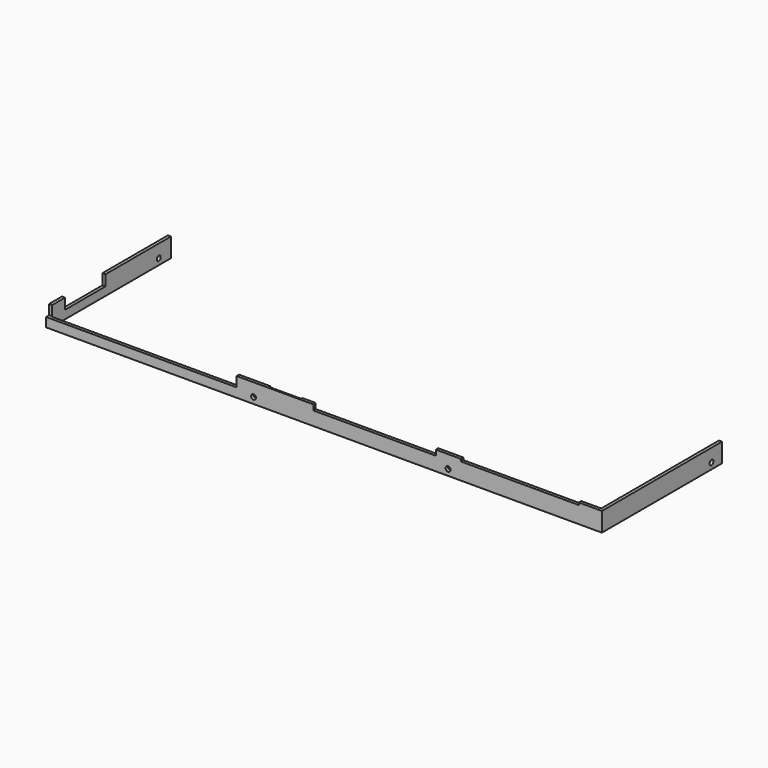
from build123d import *

# Parameters (mm, degrees)
SKETCH103_W             = 21
SKETCH103_H             = 19
EXTRUDE095_DEPTH        = 2
SKETCH127_R             = 1.6
EXTRUDE117_DEPTH        = 10
BODY090_PLACEMENT_ANGLE = 90
BODY091_PLACEMENT_ANGLE = 90
BODY092_PLACEMENT_ANGLE = 90
BODY093_PLACEMENT_ANGLE = 90
SKETCH135_W             = 33
SKETCH135_H             = 7.5
EXTRUDE125_DEPTH        = 4
SKETCH102_W             = 126
SKETCH102_H             = 18
SKETCH102_W_2           = 80
SKETCH102_H_2           = 14
SKETCH102_W_3           = 77
SKETCH102_H_3           = 12
EXTRUDE094_DEPTH        = 4
EXTRUDE077_DEPTH        = 12.5


with BuildPart() as extrude095:
    # Sketch103 → Extrude095 (new body)
    with BuildSketch(Plane.XZ.offset(0.5)):
        with Locations((153, -16.5)):
            Rectangle(SKETCH103_W, SKETCH103_H)
    extrude(amount=-EXTRUDE095_DEPTH)


with BuildPart() as screw_outer:
    # Sketch127 → Extrude117 (new body)
    with BuildSketch(Plane.XY):
        Circle(SKETCH127_R)
    extrude(amount=EXTRUDE117_DEPTH)


with BuildPart() as screw_outer011:
    # Body090 base: copy of screw outer
    add(screw_outer.part)


with BuildPart() as screw_outer011_1:
    # Body090 placement: moved
    add(screw_outer011.part.moved(Location((-3.5, 88, -21))).rotate(Axis((-3.5, 88, -21), (0, 1, 0)), BODY090_PLACEMENT_ANGLE))


with BuildPart() as screw_outer012:
    # Body091 base: copy of screw outer
    add(screw_outer.part)


with BuildPart() as screw_outer012_1:
    # Body091 placement: moved
    add(screw_outer012.part.moved(Location((361.5, 88, -21))).rotate(Axis((361.5, 88, -21), (0, -1, 0)), BODY091_PLACEMENT_ANGLE))


with BuildPart() as screw_outer013:
    # Body092 base: copy of screw outer
    add(screw_outer.part)


with BuildPart() as screw_outer013_1:
    # Body092 placement: moved
    add(screw_outer013.part.moved(Location((133, -2.5, -21))).rotate(Axis((133, -2.5, -21), (-1, 0, 0)), BODY092_PLACEMENT_ANGLE))


with BuildPart() as screw_outer014:
    # Body093 base: copy of screw outer
    add(screw_outer.part)


with BuildPart() as screw_outer014_1:
    # Body093 placement: moved
    add(screw_outer014.part.moved(Location((260, -2.5, -21))).rotate(Axis((260, -2.5, -21), (-1, 0, 0)), BODY093_PLACEMENT_ANGLE))


with BuildPart() as power_cover001:
    # Sketch135 → Extrude125 (new body)
    with BuildSketch(Plane(origin=(-3.5, 0, 0), x_dir=(0, -1, 0), z_dir=(-1, 0, 0))):
        with Locations((-28, -15.75)):
            Rectangle(SKETCH135_W, SKETCH135_H)
    extrude(amount=-EXTRUDE125_DEPTH)


with BuildPart() as compound021:
    # Sketch102 → Extrude094 (new body)
    with BuildSketch(Plane.XZ.offset(3)):
        with Locations((59, -10)):
            Rectangle(SKETCH102_W, SKETCH102_H)
        with Locations((212, -9)):
            Rectangle(SKETCH102_W_2, SKETCH102_H_2)
        with Locations((306.93, -8)):
            Rectangle(SKETCH102_W_3, SKETCH102_H_3)
    extrude(amount=-EXTRUDE094_DEPTH)

    # Compound021: union Extrude095, screw outer011, screw outer012, screw outer013, screw outer014, power cover001
    add(extrude095.part)
    add(screw_outer011_1.part)
    add(screw_outer012_1.part)
    add(screw_outer013_1.part)
    add(screw_outer014_1.part)
    add(power_cover001.part)


with BuildPart() as side001:
    # Sketch085 → Extrude077 (new body)
    with BuildSketch(Plane(origin=(0, 0, -25), x_dir=(1, 0, 0), z_dir=(0, 0, -1))):
        Polygon((-2.5, 1.5), (360.5, 1.5), (360.5, -96.5), (358.5, -96.5), (358.5, -0.5), (-0.5, -0.5), (-0.5, -98), (-2.5, -98), align=None)
    extrude(amount=-EXTRUDE077_DEPTH)

    # Cut011: cut Compound021
    add(compound021.part, mode=Mode.SUBTRACT)


solid = side001.part
